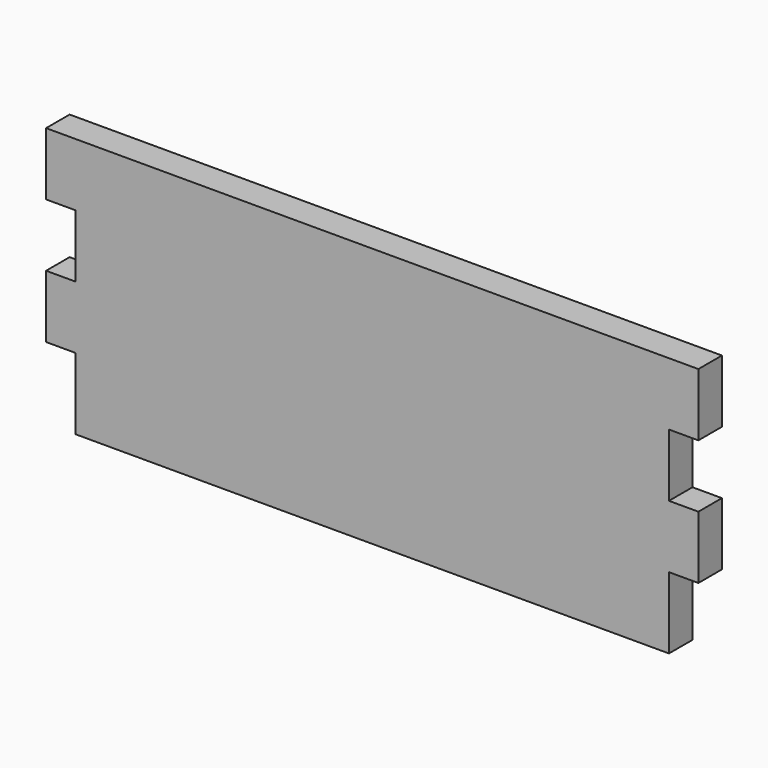
from build123d import *

# Parameters (mm, degrees)
F0_W     = 19.05
F0_H     = 40.64
F1_DEPTH = 19.05


with BuildPart() as f1:
    # F0 (on Front) → F1 (new body)
    with BuildSketch(Plane.XZ):
        with Locations((-118.774132, 46.852017)):
            Rectangle(F0_W, F0_H)
        with Locations((284.450868, 46.852017)):
            Rectangle(F0_W, F0_H)
        with Locations((-118.774132, -34.427983)):
            Rectangle(F0_W, F0_H)
        with Locations((284.450868, -34.427983)):
            Rectangle(F0_W, F0_H)
        Polygon((274.925868, 67.172017), (-109.249132, 67.172017), (-109.249132, 26.532017), (-109.249132, -14.107983), (-109.249132, -54.747983), (-109.249132, -101.102983), (274.925868, -101.102983), (274.925868, -54.747983), (274.925868, -14.107983), (274.925868, 26.532017), align=None)
    extrude(amount=F1_DEPTH)


solid = f1.part
